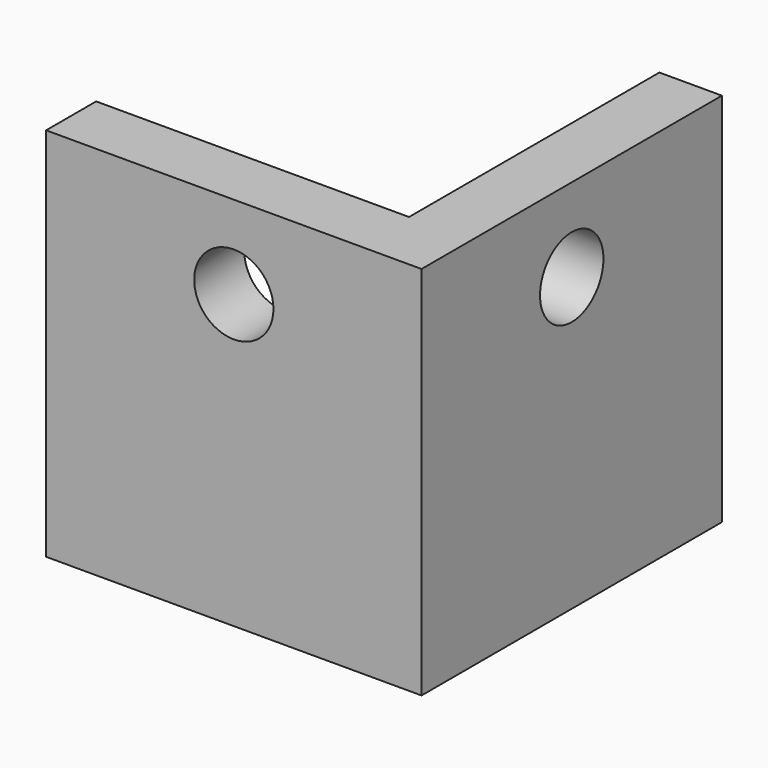
from build123d import *

# Parameters (mm, degrees)
SKETCH009_R             = 1.9
PAD006_DEPTH            = 3
SKETCH010_W             = 18
SKETCH010_H             = 18
SKETCH010_R             = 1.9
PAD007_DEPTH            = 3
SKETCH011_W             = 18
SKETCH011_H             = 18
SKETCH011_R             = 1.9
PAD008_DEPTH            = 3
BODY008_PLACEMENT_ANGLE = 180


with BuildPart() as part:
    # Sketch009 → Pad006 (new body)
    with BuildSketch(Plane.XY):
        Polygon((0, -18), (0, 0), (18, 0), (18, -6), (6, -18), align=None)
        with Locations((6, -12)):
            Circle(SKETCH009_R, mode=Mode.SUBTRACT)
        with Locations((12, -6)):
            Circle(SKETCH009_R, mode=Mode.SUBTRACT)
    extrude(amount=PAD006_DEPTH)

    # Sketch010 (on Face1 of Pad006) → Pad007 (join)
    with BuildSketch(Plane(origin=(3, 0, 0), x_dir=(0, -1, 0), z_dir=(-1, 0, 0))):
        with Locations((9, 9)):
            Rectangle(SKETCH010_W, SKETCH010_H)
        with Locations((9, 14)):
            Circle(SKETCH010_R, mode=Mode.SUBTRACT)
    extrude(amount=PAD007_DEPTH)

    # Sketch011 (on Face2 of Pad006) → Pad008 (join)
    with BuildSketch(Plane(origin=(0, 0, 0), x_dir=(-1, 0, 0), z_dir=(0, 1, 0))):
        with Locations((-9, 9)):
            Rectangle(SKETCH011_W, SKETCH011_H)
        with Locations((-9, 14)):
            Circle(SKETCH011_R, mode=Mode.SUBTRACT)
    extrude(amount=-PAD008_DEPTH)


with BuildPart() as part_1:
    # Body005 placement: moved
    add(part.part.moved(Location((25, 0, 3.3))))


with BuildPart() as part_2:
    # Body008 placement: moved
    add(part_1.part.moved(Location((226, -81.5, 0))).rotate(Axis((226, -81.5, 0), (0, 0, 1)), BODY008_PLACEMENT_ANGLE))


solid = part_2.part
